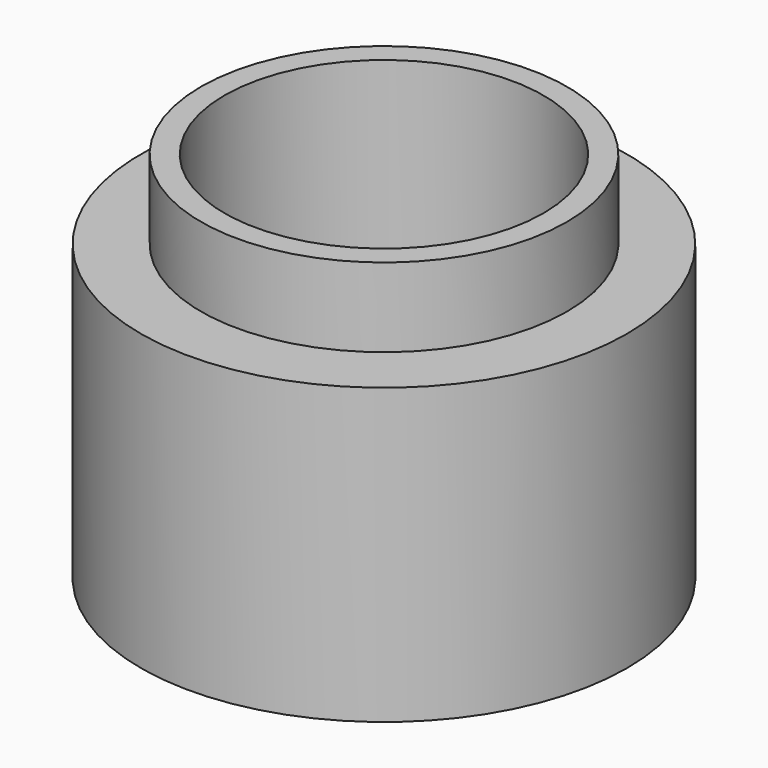
from build123d import *

# Parameters (mm, degrees)
F0_R     = 16.935
F1_DEPTH = 20.5
F2_R     = 12.75
F3_DEPTH = 5.5
F4_R     = 11.1125
F5_DEPTH = 40.132


with BuildPart() as f1:
    # F0 (on Top) → F1 (new body)
    with BuildSketch(Plane.XY):
        Circle(F0_R)
    extrude(amount=F1_DEPTH)

    # F2 (on face) → F3 (join)
    with BuildSketch(Plane.XY.offset(20.5)):
        with Locations((0, 0.00292)):
            Circle(F2_R)
    extrude(amount=F3_DEPTH)

    # F4 (on face) → F5 (cut)
    with BuildSketch(Plane.XY.offset(26)):
        Circle(F4_R)
    extrude(amount=-F5_DEPTH, mode=Mode.SUBTRACT)


solid = f1.part
